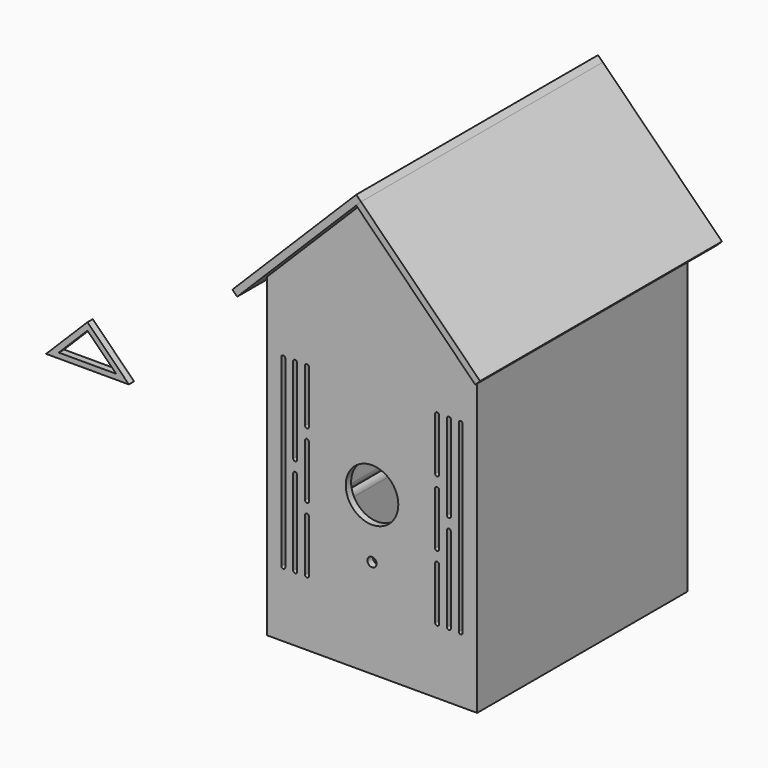
from build123d import *

# Parameters (mm, degrees)
F1_DEPTH  = 200
F2_T      = -5.12
F3_R      = 20
F4_DEPTH  = 25
F3_R_2    = 3.5
F5_DEPTH  = 220
F7_W      = 128.137085
F7_H      = 230
F8_DEPTH  = 5.12
F10_W     = 230
F10_H     = 133.257085
F11_DEPTH = 5.12
F14_DEPTH = 5


with BuildPart() as f1:
    # F0 (on Front) → F1 (new body)
    with BuildSketch(Plane.XZ):
        Polygon((0, 240), (0, 0), (160, 0), (160, 240), (80, 320), align=None)
        with BuildLine():
            Line((29, 50), (29, 90))
            ThreePointArc((29, 90), (30.5, 91.5), (32, 90))
            Line((32, 90), (32, 50))
            ThreePointArc((32, 50), (30.5, 48.5), (29, 50))
        make_face(mode=Mode.SUBTRACT)
        with BuildLine():
            Line((20.021926, 50.048288), (20.021926, 115))
            ThreePointArc((20.021926, 115), (21.521926, 116.5), (23.021926, 115))
            Line((23.021926, 115), (23.021926, 50.048288))
            ThreePointArc((23.021926, 50.048288), (21.521926, 48.548288), (20.021926, 50.048288))
        make_face(mode=Mode.SUBTRACT)
        with BuildLine():
            Line((14, 190), (14, 50))
            ThreePointArc((14, 50), (12.5, 48.5), (11, 50))
            Line((11, 50), (11, 190))
            ThreePointArc((11, 190), (12.5, 191.5), (14, 190))
        make_face(mode=Mode.SUBTRACT)
        with BuildLine():
            Line((29, 100), (29, 140))
            ThreePointArc((29, 140), (30.5, 141.5), (32, 140))
            Line((32, 140), (32, 100))
            ThreePointArc((32, 100), (30.5, 98.5), (29, 100))
        make_face(mode=Mode.SUBTRACT)
        with BuildLine():
            Line((20, 125), (20, 190))
            ThreePointArc((20, 190), (21.5, 191.5), (23, 190))
            Line((23, 190), (23, 125))
            ThreePointArc((23, 125), (21.5, 123.5), (20, 125))
        make_face(mode=Mode.SUBTRACT)
        with BuildLine():
            ThreePointArc((128, 90), (129.5, 91.5), (131, 90))
            Line((131, 90), (131, 50))
            ThreePointArc((131, 50), (129.5, 48.5), (128, 50))
            Line((128, 50), (128, 90))
        make_face(mode=Mode.SUBTRACT)
        with BuildLine():
            Line((136.978074, 50.048288), (136.978074, 115))
            ThreePointArc((136.978074, 115), (138.478074, 116.5), (139.978074, 115))
            Line((139.978074, 115), (139.978074, 50.048288))
            ThreePointArc((139.978074, 50.048288), (138.478074, 48.548288), (136.978074, 50.048288))
        make_face(mode=Mode.SUBTRACT)
        with BuildLine():
            Line((128, 100), (128, 140))
            ThreePointArc((128, 140), (129.5, 141.5), (131, 140))
            Line((131, 140), (131, 100))
            ThreePointArc((131, 100), (129.5, 98.5), (128, 100))
        make_face(mode=Mode.SUBTRACT)
        with BuildLine():
            Line((137, 125), (137, 190))
            ThreePointArc((137, 190), (138.5, 191.5), (140, 190))
            Line((140, 190), (140, 125))
            ThreePointArc((140, 125), (138.5, 123.5), (137, 125))
        make_face(mode=Mode.SUBTRACT)
        with BuildLine():
            ThreePointArc((146, 190), (147.5, 191.5), (149, 190))
            Line((149, 190), (149, 50))
            ThreePointArc((149, 50), (147.5, 48.5), (146, 50))
            Line((146, 50), (146, 190))
        make_face(mode=Mode.SUBTRACT)
        with BuildLine():
            Line((29, 150), (29, 190))
            ThreePointArc((29, 190), (30.5, 191.5), (32, 190))
            Line((32, 190), (32, 150))
            ThreePointArc((32, 150), (30.5, 148.5), (29, 150))
        make_face(mode=Mode.SUBTRACT)
        with BuildLine():
            Line((128, 150), (128, 190))
            ThreePointArc((128, 190), (129.5, 191.5), (131, 190))
            Line((131, 190), (131, 150))
            ThreePointArc((131, 150), (129.5, 148.5), (128, 150))
        make_face(mode=Mode.SUBTRACT)
    extrude(amount=F1_DEPTH)

    # F2
    f2_openings = [f1.faces().sort_by_distance(p)[0] for p in [
        (80, -100, 0),
        (120, -100, 280),
        (40, -100, 280),
    ]]
    offset(amount=F2_T, openings=f2_openings)

    # F3 (on face) → F4 (cut)
    with BuildSketch(Plane.XZ.offset(200)):
        with Locations((80, 120)):
            Circle(F3_R)
    extrude(amount=-F4_DEPTH, mode=Mode.SUBTRACT)

    # F3 (on face) → F5 (cut)
    with BuildSketch(Plane.XZ.offset(200)):
        with Locations((80, 75)):
            Circle(F3_R_2)
    extrude(amount=-F5_DEPTH, mode=Mode.SUBTRACT)


with BuildPart() as f8:
    # F7 (on face) → F8 (new body)
    with BuildSketch(Plane(origin=(200, 0, 200), x_dir=(0.707107, 0, -0.707107), z_dir=(-0.707107, 0, -0.707107))):
        with Locations((-105.637085, 100)):
            Rectangle(F7_W, F7_H)
    extrude(amount=-F8_DEPTH)


with BuildPart() as f11:
    # F10 (on face) → F11 (new body)
    with BuildSketch(Plane(origin=(-120, 0, 120), x_dir=(0, -1, 0), z_dir=(-0.707107, 0, 0.707107))):
        with Locations((100, 221.33417)):
            Rectangle(F10_W, F10_H)
    extrude(amount=F11_DEPTH)


with BuildPart() as f14:
    # F13 (on face) → F14 (new body)
    with BuildSketch(Plane.XZ.offset(200)):
        Polygon((-132.496486, 168.67048), (-163.99388, 137.173086), (-100.999093, 137.173086), align=None)
        Polygon((-110.655947, 141.173086), (-154.337026, 141.173086), (-132.496486, 163.013626), align=None, mode=Mode.SUBTRACT)
    extrude(amount=F14_DEPTH)


solid = Compound([f1.part, f8.part, f11.part, f14.part])
